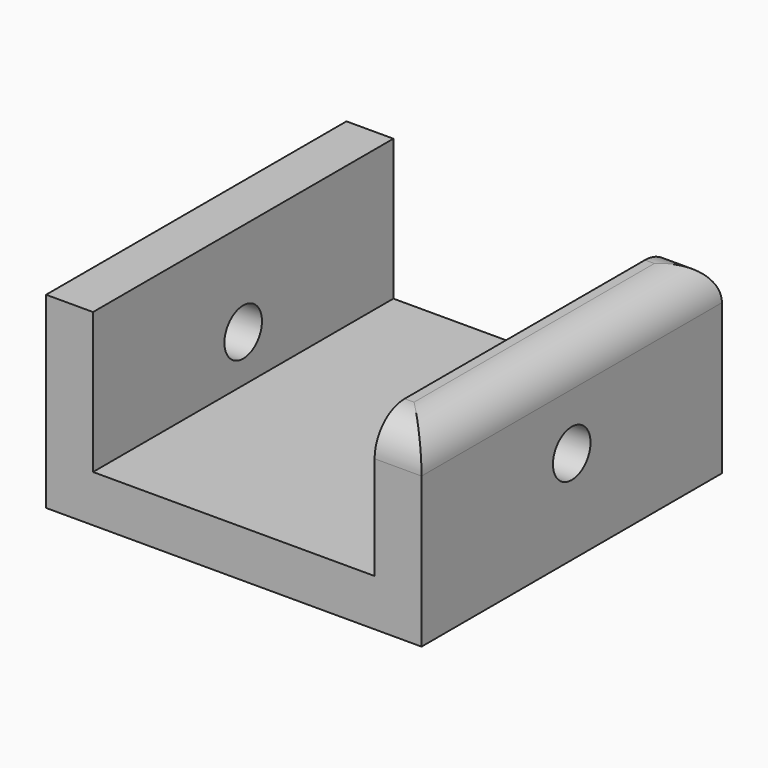
from build123d import *

# Parameters (mm, degrees)
F1_DEPTH = 50.8
F3_D     = 6.35
F4_R     = 5.08


with BuildPart() as f1:
    # F0 (on Front) → F1 (new body)
    with BuildSketch(Plane.XZ):
        Polygon((6.35, 6.35), (6.35, 25.4), (0, 25.4), (0, 0), (50.8, 0), (50.8, 25.4), (44.45, 25.4), (44.45, 6.35), align=None)
    extrude(amount=F1_DEPTH)

    # F3 (through all)
    with Locations(Plane(origin=(0, 0, 0), x_dir=(0, -1, 0), z_dir=(-1, 0, 0))):
        with Locations((25.4, 12.7)):
            Hole(F3_D / 2)

    # F4
    f4_edges = [f1.edges().sort_by_distance(p)[0] for p in [
        (50.8, -25.4, 25.4),
        (47.625, -50.8, 25.4),
        (47.625, 0, 25.4),
    ]]
    fillet(f4_edges, radius=F4_R)


solid = f1.part
